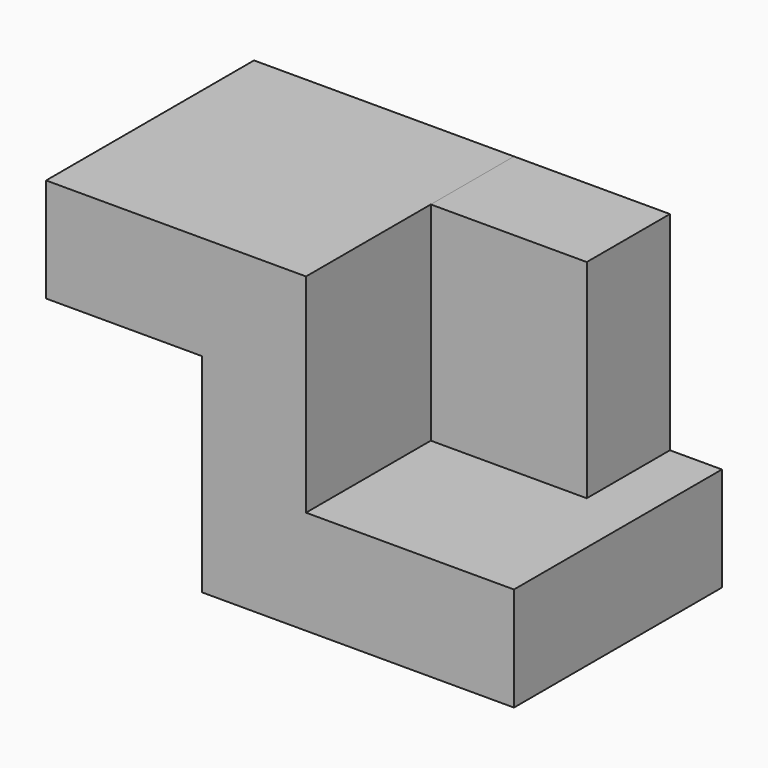
from build123d import *

# Parameters (mm, degrees)
F1_DEPTH = 63.5
F2_W     = 38.1
F2_H     = 50.8
F3_DEPTH = 25.4


with BuildPart() as f1:
    # F0 (on Front) → F1 (new body)
    with BuildSketch(Plane.XZ):
        Polygon((6.488061, 44.522272), (-57.011939, 44.522272), (-57.011939, 19.122272), (-18.911939, 19.122272), (-18.911939, -31.677728), (57.288061, -31.677728), (57.288061, -6.277728), (6.488061, -6.277728), align=None)
    extrude(amount=F1_DEPTH)


with BuildPart() as f3:
    # F2 (on face) → F3 (new body)
    with BuildSketch(Plane(origin=(0, 0, 0), x_dir=(-1, 0, 0), z_dir=(0, 1, 0))):
        with Locations((-25.538061, 19.122272)):
            Rectangle(F2_W, F2_H)
    extrude(amount=-F3_DEPTH)


solid = Compound([f1.part, f3.part])
